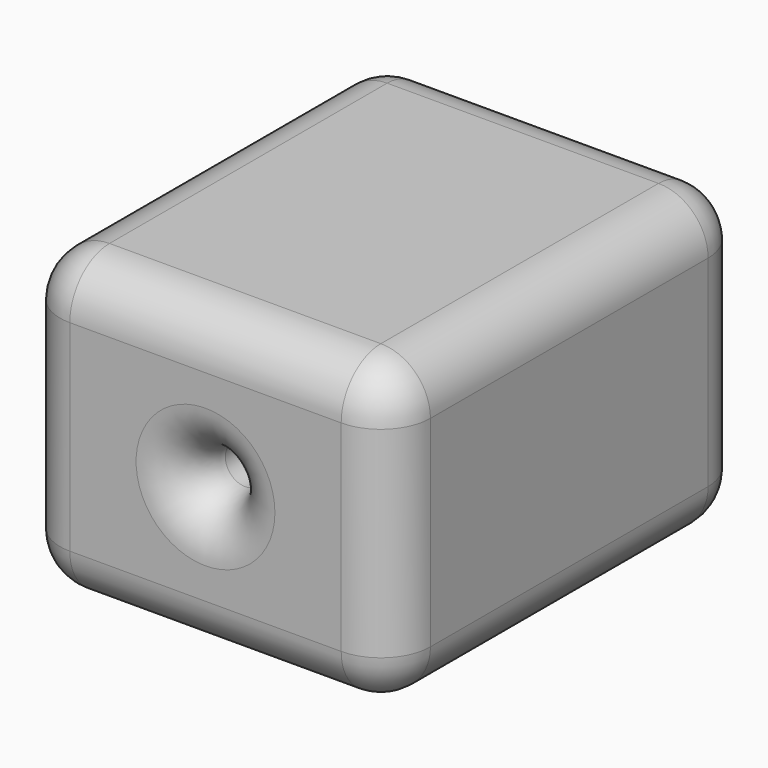
from build123d import *

# Parameters (mm, degrees)
F0_W     = 74.732258
F0_H     = 60.57189
F1_DEPTH = 90
F2_R     = 4
F3_DEPTH = 90.001
F4_R     = 10


with BuildPart() as f1:
    # F0 (on Front) → F1 (new body)
    with BuildSketch(Plane.XZ):
        Rectangle(F0_W, F0_H)
    extrude(amount=F1_DEPTH)

    # F2 (on face) → F3 (cut, through all)
    with BuildSketch(Plane.XZ.offset(90)):
        Circle(F2_R)
    extrude(amount=-F3_DEPTH, mode=Mode.SUBTRACT)

    # F4
    f4_edges = [f1.edges().sort_by_distance(p)[0] for p in [
        (-37.366129, -90, 0),
        (37.366129, -90, 0),
        (0, -90, 30.285945),
        (-37.366129, -45, -30.285945),
        (37.366129, -45, -30.285945),
        (0, 0, -30.285945),
        (37.366129, -45, 30.285945),
        (37.366129, 0, 0),
        (-37.366129, -45, 30.285945),
        (-37.366129, 0, 0),
        (0, 0, 30.285945),
        (-4, -90, 0),
        (-4, 0, 0),
        (0, -90, -30.285945),
    ]]
    fillet(f4_edges, radius=F4_R)


solid = f1.part
